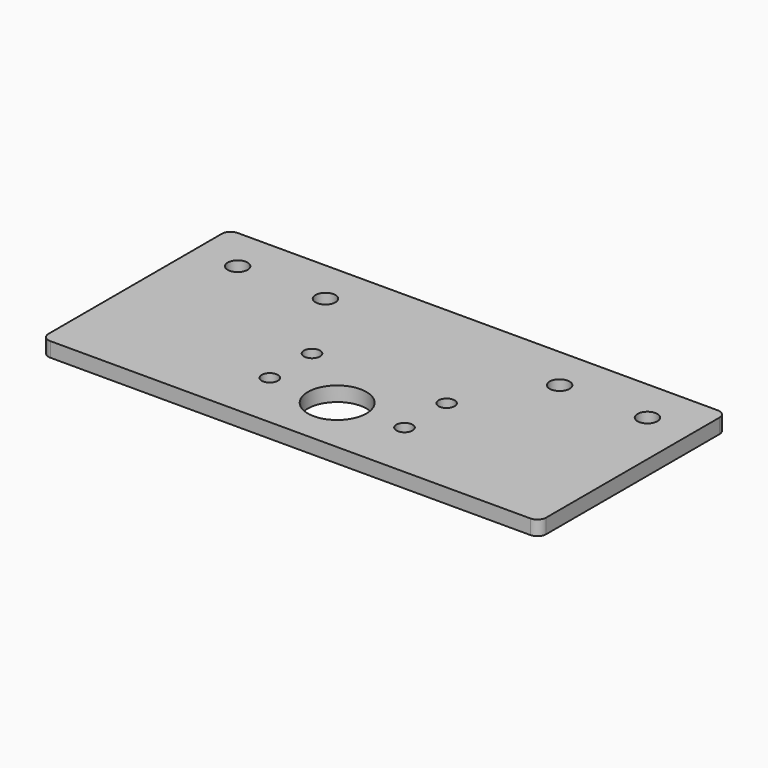
from build123d import *

# Parameters (mm, degrees)
F0_W     = 170
F0_H     = 80
F1_DEPTH = 2.5
F2_R     = 3.4
F2_R_2   = 10
F2_R_3   = 2.75
F3_DEPTH = 5
F4_R     = 3


with BuildPart() as f1:
    # F0 (on Top) → F1 (new body, symmetric)
    with BuildSketch(Plane.XY):
        Rectangle(F0_W, F0_H)
    extrude(amount=F1_DEPTH, both=True)

    # F2 (on face) → F3 (cut)
    with BuildSketch(Plane.XY.offset(2.5)):
        with Locations((40, 25)):
            Circle(F2_R)
        with Locations((70, 25)):
            Circle(F2_R)
        with Locations((-40, 25)):
            Circle(F2_R)
        with Locations((-70, 25)):
            Circle(F2_R)
        with Locations((0, -20)):
            Circle(F2_R_2)
        with Locations((-23, -20)):
            Circle(F2_R_3)
        with Locations((-23, -2)):
            Circle(F2_R_3)
        with Locations((23, -2)):
            Circle(F2_R_3)
        with Locations((23, -20)):
            Circle(F2_R_3)
    extrude(amount=-F3_DEPTH, mode=Mode.SUBTRACT)

    # F4
    f4_edges = [f1.edges().sort_by_distance(p)[0] for p in [
        (-85, -40, 0),
        (85, -40, 0),
        (-85, 40, 0),
        (85, 40, 0),
    ]]
    fillet(f4_edges, radius=F4_R)


solid = f1.part
